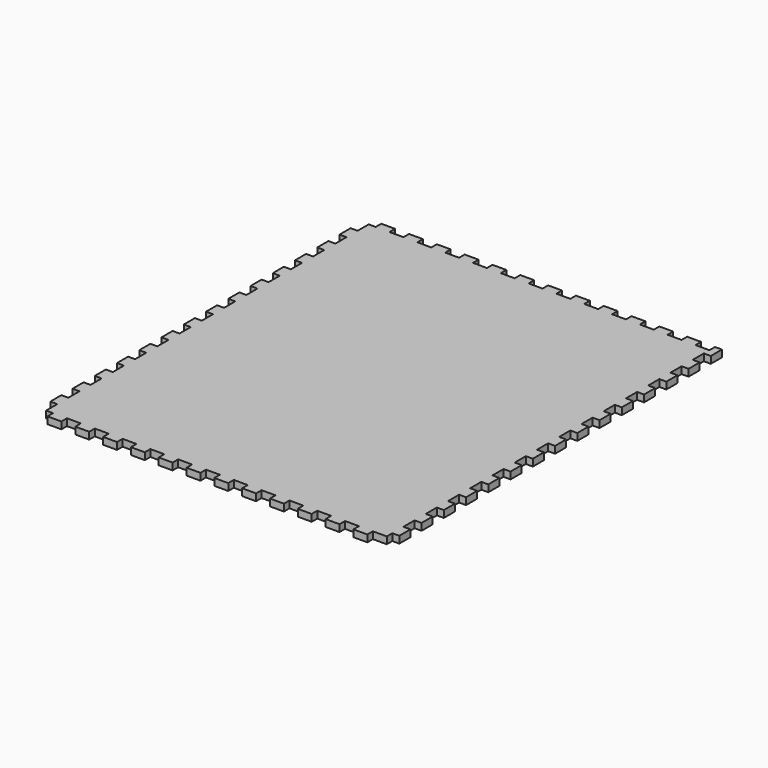
from build123d import *

# Parameters (mm, degrees)
SKETCH050_W             = 250
SKETCH050_H             = 300
PAD034_DEPTH            = 5
SKETCH055_W             = 10
SKETCH055_H             = 5
PAD039_DEPTH            = 5
LINEARPATTERN030_COUNT  = 15
LINEARPATTERN030_PITCH  = 20
SKETCH066_W             = 10
SKETCH066_H             = 5
POCKET019_DEPTH         = 5
LINEARPATTERN041_COUNT  = 13
LINEARPATTERN041_PITCH  = 20
SKETCH067_W             = 10
SKETCH067_H             = 5
POCKET020_DEPTH         = 5
LINEARPATTERN042_COUNT  = 15
LINEARPATTERN042_PITCH  = 20
SKETCH068_W             = 10
SKETCH068_H             = 5
POCKET021_DEPTH         = 5
LINEARPATTERN043_COUNT  = 13
LINEARPATTERN043_PITCH  = 20
BODY013_PLACEMENT_ANGLE = 180


with BuildPart() as part:
    # Sketch050 → Pad034 (new body)
    with BuildSketch(Plane.XY):
        Rectangle(SKETCH050_W, SKETCH050_H)
    extrude(amount=PAD034_DEPTH)

    # Sketch055 (on DatumPlane) → Pad039 (join)
    with BuildSketch(Plane(origin=(-125, 0, 0), x_dir=(0, -1, 0), z_dir=(-1, 0, 0))):
        with Locations((-135, 2.5)):
            Rectangle(SKETCH055_W, SKETCH055_H)
    pad039 = extrude(amount=PAD039_DEPTH)

    # LinearPattern030: Pad039 ×15
    with Locations(*[(0, -i * LINEARPATTERN030_PITCH, 0) for i in range(1, LINEARPATTERN030_COUNT)]):
        add(pad039)

    # Sketch066 (on DatumPlane) → Pocket019 (cut)
    with BuildSketch(Plane.XZ.offset(150)):
        with Locations((-120, 2.5)):
            Rectangle(SKETCH066_W, SKETCH066_H)
    pocket019 = extrude(amount=-POCKET019_DEPTH, mode=Mode.SUBTRACT)

    # LinearPattern041: Pocket019 ×13
    with Locations(*[(i * LINEARPATTERN041_PITCH, 0, 0) for i in range(1, LINEARPATTERN041_COUNT)]):
        add(pocket019, mode=Mode.SUBTRACT)

    # Sketch067 (on DatumPlane) → Pocket020 (cut)
    with BuildSketch(Plane.YZ.offset(125)):
        with Locations((-140, 2.5)):
            Rectangle(SKETCH067_W, SKETCH067_H)
    pocket020 = extrude(amount=-POCKET020_DEPTH, mode=Mode.SUBTRACT)

    # LinearPattern042: Pocket020 ×15
    with Locations(*[(0, i * LINEARPATTERN042_PITCH, 0) for i in range(1, LINEARPATTERN042_COUNT)]):
        add(pocket020, mode=Mode.SUBTRACT)

    # Sketch068 (on DatumPlane) → Pocket021 (cut)
    with BuildSketch(Plane(origin=(0, 150, 0), x_dir=(-1, 0, 0), z_dir=(0, 1, 0))):
        with Locations((-120, 2.5)):
            Rectangle(SKETCH068_W, SKETCH068_H)
    pocket021 = extrude(amount=-POCKET021_DEPTH, mode=Mode.SUBTRACT)

    # LinearPattern043: Pocket021 ×13
    with Locations(*[(-i * LINEARPATTERN043_PITCH, 0, 0) for i in range(1, LINEARPATTERN043_COUNT)]):
        add(pocket021, mode=Mode.SUBTRACT)


with BuildPart() as part_1:
    # Body013 placement: moved
    add(part.part.moved(Location((125, 0, 200))).rotate(Axis((125, 0, 200), (0, 0, 1)), BODY013_PLACEMENT_ANGLE))


solid = part_1.part
